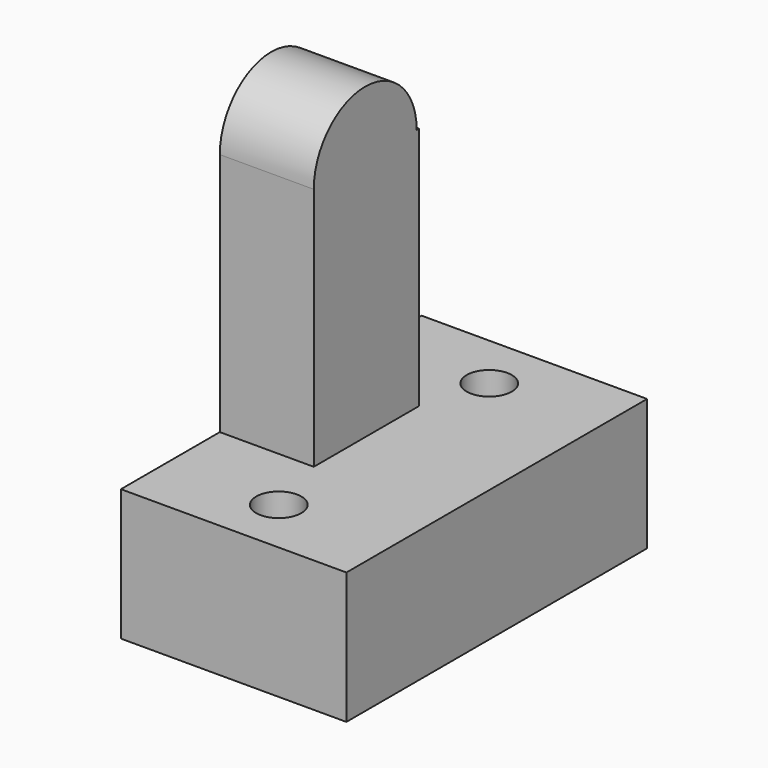
from build123d import *

# Parameters (mm, degrees)
F0_W     = 60
F0_H     = 100
F1_DEPTH = 100
F2_R     = 6
F3_DEPTH = 100
F4_R     = 6
F5_DEPTH = 65
F6_W     = 25
F6_H     = 17.1061154245
F7_ANGLE = 180


with BuildPart() as f1:
    # F0 (on Top) → F1 (new body)
    with BuildSketch(Plane.XY):
        Rectangle(F0_W, F0_H)
    extrude(amount=F1_DEPTH)

    # F2 (on face) → F3 (cut)
    with BuildSketch(Plane.XY.offset(100)):
        with Locations((0, 35)):
            Circle(F2_R)
        with Locations((0, -35)):
            Circle(F2_R)
    extrude(amount=-F3_DEPTH, mode=Mode.SUBTRACT)

    # F4 (on face) → F5 (cut)
    with BuildSketch(Plane.XY.offset(100)):
        Polygon((-30, 50), (-30, 17.8938845755), (-5, 17.8938845755), (-5, -17.1061154245), (-30, -17.1061154245), (-30, -50), (30, -50), (30, 50), align=None)
        with Locations((0, -35)):
            Circle(F4_R, mode=Mode.SUBTRACT)
        with Locations((0, 35)):
            Circle(F4_R, mode=Mode.SUBTRACT)
    extrude(amount=-F5_DEPTH, mode=Mode.SUBTRACT)

    # F6 (on face) → F7 (revolve)
    with BuildSketch(Plane.XY.offset(100)):
        with Locations((-17.5, -8.5530577123)):
            Rectangle(F6_W, F6_H)
    revolve(axis=Axis((-17.5, 0, 100), (-1, 0, 0)), revolution_arc=F7_ANGLE)


solid = f1.part
